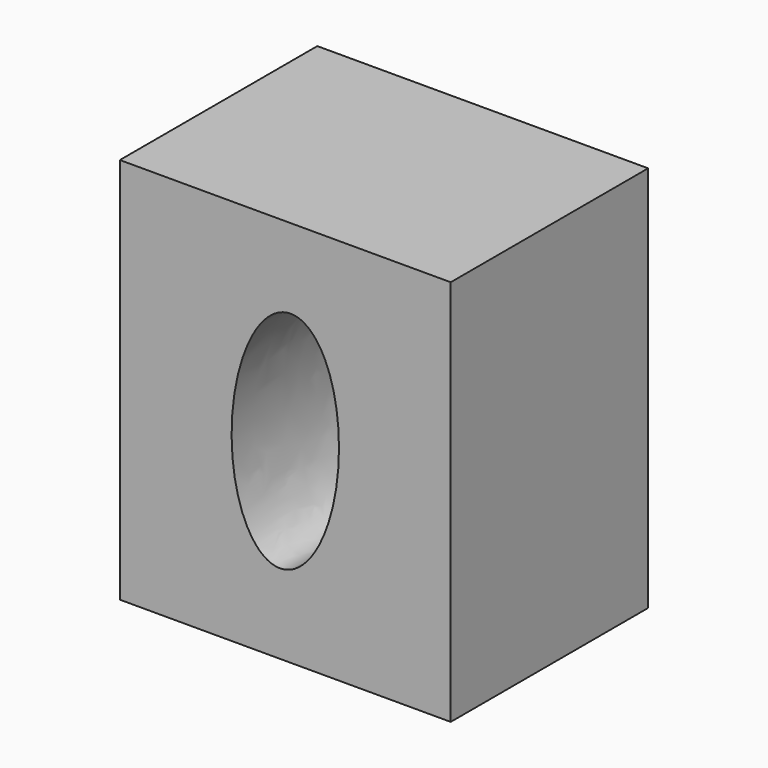
from build123d import *

# Parameters (mm, degrees)
F0_W     = 68.109154
F0_H     = 79.682504
F1_DEPTH = 50.8
F3_DEPTH = 50.8


with BuildPart() as f1:
    # F0 (on Front) → F1 (new body)
    with BuildSketch(Plane.XZ):
        Rectangle(F0_W, F0_H)
    extrude(amount=F1_DEPTH)

    # F2 (on face) → F3 (cut, through all)
    with BuildSketch(Plane.XZ.offset(50.8)):
        with BuildLine():
            add(Edge.make_bspline(
                [(1.421978, 23.415251), (-17.563359, 24.568206), (-10.203658, -11.131148), (-2.843956, -46.830501), (8.78168, -12.284103), (20.407316, 22.262295), (1.421978, 23.415251)],
                knots=[0, 0, 0, 2.094395, 2.094395, 4.18879, 4.18879, 6.283185, 6.283185, 6.283185], degree=2, weights=[1, 0.5, 1, 0.5, 1, 0.5, 1]))
        make_face()
    extrude(amount=-F3_DEPTH, mode=Mode.SUBTRACT)


solid = f1.part
